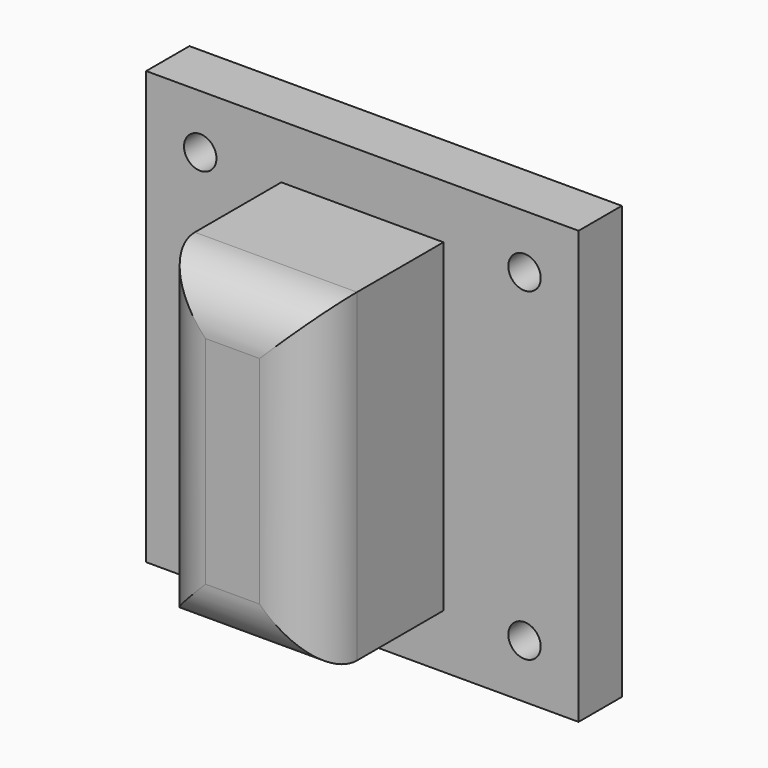
from build123d import *

# Parameters (mm, degrees)
F0_R     = 1.5
F1_DEPTH = 5
F3_DEPTH = 15
F4_R     = 5


with BuildPart() as f1:
    # F0 (on Front) → F1 (new body)
    with BuildSketch(Plane.XZ):
        with Locations((-15, -15)):
            Circle(F0_R)
        with BuildLine():
            ThreePointArc((16.5, -15), (15, -13.5), (13.5, -15))
            ThreePointArc((13.5, -15), (15, -16.5), (16.5, -15))
        make_face()
        Polygon((-20, 20), (-20, 0), (-20, -20), (20, -20), (20, 20), align=None)
        with Locations((-15, -15)):
            Circle(F0_R, mode=Mode.SUBTRACT)
        with BuildLine():
            ThreePointArc((16.5, -15), (15, -16.5), (13.5, -15))
            ThreePointArc((13.5, -15), (15, -13.5), (16.5, -15))
        make_face(mode=Mode.SUBTRACT)
        with Locations((-15, 15)):
            Circle(F0_R, mode=Mode.SUBTRACT)
        with Locations((15, 15)):
            Circle(F0_R, mode=Mode.SUBTRACT)
    extrude(amount=F1_DEPTH)

    # F2 (on face) → F3 (join)
    with BuildSketch(Plane.XZ.offset(5)):
        Polygon((7.5, 15), (0, 15), (-7.5, 15), (-7.5, -15), (7.5, -15), align=None)
    extrude(amount=F3_DEPTH)

    # F4
    f4_edges = [f1.edges().sort_by_distance(p)[0] for p in [
        (-7.5, -20, 0),
        (0, -20, 15),
        (7.5, -20, 0),
        (0, -20, -15),
    ]]
    fillet(f4_edges, radius=F4_R)


solid = f1.part
